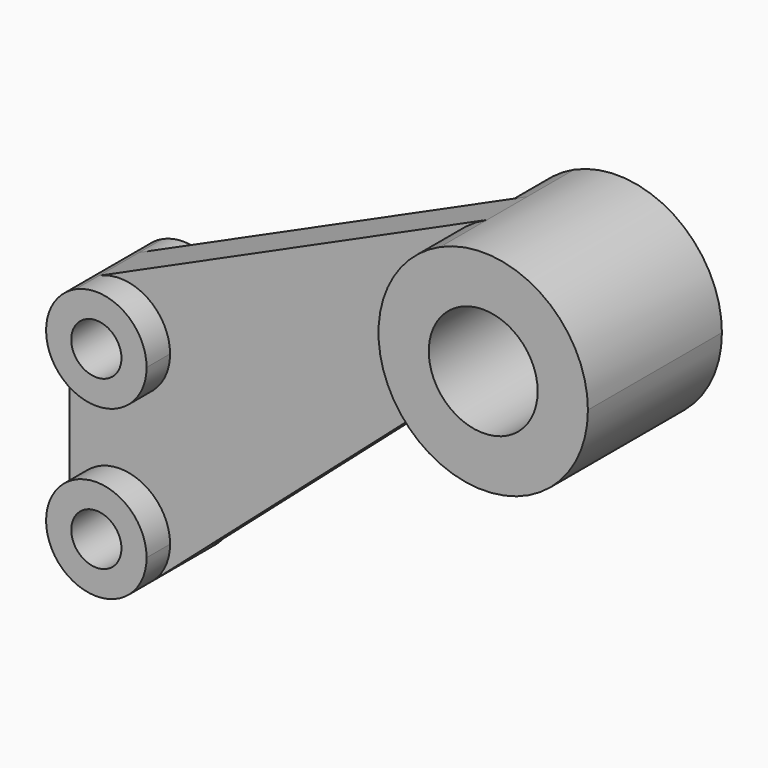
from build123d import *

# Parameters (mm, degrees)
F0_R     = 13.0048
F1_DEPTH = 20.0025
F2_DEPTH = 5.9944
F0_R_2   = 5.9944
F3_DEPTH = 13.0048


with BuildPart() as f1:
    # F0 (on Front) → F1 (new body, symmetric)
    with BuildSketch(Plane.XZ):
        with BuildLine():
            ThreePointArc((-12.949346, -21.392276), (12.278025, -21.784516), (25.0063, 0))
            ThreePointArc((25.0063, 0), (13.562501, 21.008894), (-10.294693, 22.788908))
            ThreePointArc((-10.294693, 22.788908), (-24.961282, 1.499814), (-12.949346, -21.392276))
        make_face()
        Circle(F0_R, mode=Mode.SUBTRACT)
    extrude(amount=F1_DEPTH, both=True)

    # F0 (on Front) → F2 (join, symmetric)
    with BuildSketch(Plane.XZ):
        with BuildLine():
            ThreePointArc((-12.949346, -21.392276), (-24.961282, 1.499814), (-10.294693, 22.788908))
            Line((-10.294693, 22.788908), (-102.934025, -19.060113))
            ThreePointArc((-102.934025, -19.060113), (-91.484026, -19.914411), (-85.9917, -29.9974))
            ThreePointArc((-85.9917, -29.9974), (-97.9932, -41.9989), (-109.9947, -29.9974))
            Line((-109.9947, -29.9974), (-109.9947, -70.0024))
            ThreePointArc((-109.9947, -70.0024), (-97.9932, -58.0009), (-85.9917, -70.0024))
            ThreePointArc((-85.9917, -70.0024), (-87.06104, -74.95456), (-90.078504, -79.024239))
            Line((-90.078504, -79.024239), (-23.216794, -20.367672))
            ThreePointArc((-23.216794, -20.367672), (-17.9672, -19.718852), (-12.949346, -21.392276))
        make_face()
    extrude(amount=F2_DEPTH, both=True)

    # F0 (on Front) → F3 (join, symmetric)
    with BuildSketch(Plane.XZ):
        with BuildLine():
            ThreePointArc((-85.9917, -29.9974), (-91.484026, -19.914411), (-102.934025, -19.060113))
            ThreePointArc((-102.934025, -19.060113), (-108.076189, -23.488226), (-109.9947, -29.9974))
            ThreePointArc((-109.9947, -29.9974), (-97.9932, -41.9989), (-85.9917, -29.9974))
        make_face()
        with Locations((-97.9932, -29.9974)):
            Circle(F0_R_2, mode=Mode.SUBTRACT)
        with BuildLine():
            ThreePointArc((-109.9947, -70.0024), (-102.94536, -80.93456), (-90.078504, -79.024239))
            ThreePointArc((-90.078504, -79.024239), (-87.06104, -74.95456), (-85.9917, -70.0024))
            ThreePointArc((-85.9917, -70.0024), (-97.9932, -58.0009), (-109.9947, -70.0024))
        make_face()
        with Locations((-97.9932, -70.0024)):
            Circle(F0_R_2, mode=Mode.SUBTRACT)
    extrude(amount=F3_DEPTH, both=True)


solid = f1.part
